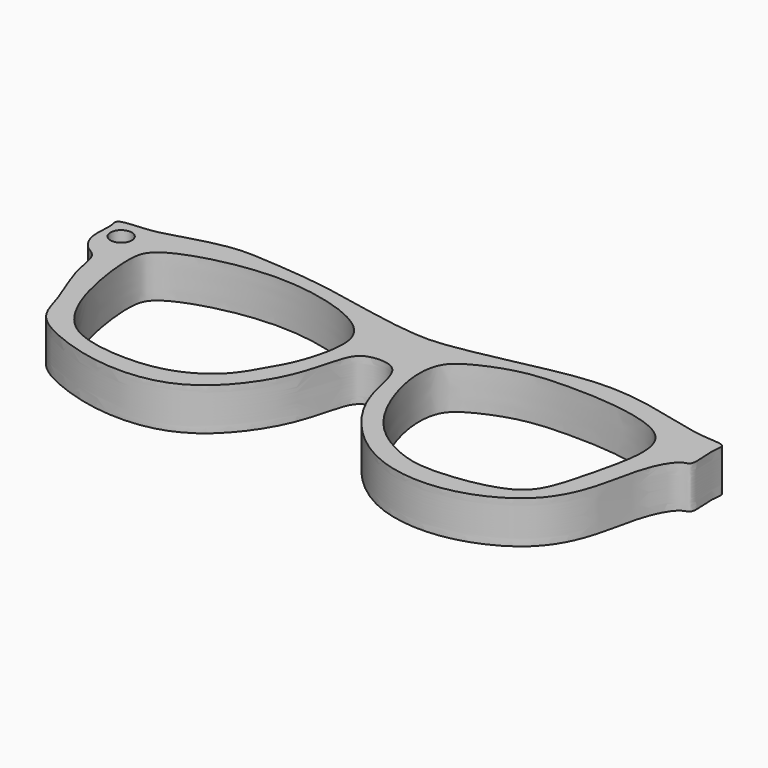
from build123d import *

# Parameters (mm, degrees)
F0_R     = 1.2593767184
F1_DEPTH = 5
F2_DEPTH = 5


with BuildPart() as f1:
    # F0 (on Top) → F1 (new body)
    with BuildSketch(Plane.XY):
        with BuildLine():
            add(Edge.make_bspline(
                [(-32.4670039117, 22.5107055157), (-33.5438875434, 22.37363291), (-35.1483504082, 22.317639734), (-38.4753353368, 22.6788585954), (-42.3809195826, 23.3709765733), (-49.1993919331, 24.8697274522), (-55.818156536, 25.331459278), (-59.6993304341, 25.5827856081), (-64.767537319, 24.2060099944), (-67.8630156337, 23.1624223492), (-71.8359103057, 23.212659343), (-71.1490241731, 21.7182168139), (-71.6763752003, 19.2298809734), (-70.4474206302, 16.9650934242), (-68.6225014634, 16.354931492), (-68.3960793371, 12.6870340034), (-66.0179532942, 7.7499930435), (-65.2209921235, 3.5392845813), (-60.4675931962, 1.1498202818), (-55.5403765883, -0.2110511423), (-49.9183092031, -0.3575119994), (-44.1354317681, 1.8918722099), (-39.0413260148, 9.0308680536), (-38.2512441556, 15.4567975901), (-36.1150973148, 16.5262245979), (-32.5244707295, 16.3751279381), (-31.9591765908, 10.5497488998), (-29.0772627839, 5.2921866816), (-23.4297282093, 0.2864925895), (-14.6787691691, -0.883596864), (-6.3818599054, 3.0525344854), (-3.6992542177, 9.2536300563), (-2.9571554868, 14.882839804), (-1.0390831864, 17.9890749211), (0.4249195793, 17.901210217), (-0.2495387265, 21.2132328924), (0.48362691, 23.1072853658), (-3.1455670919, 22.8609067775), (-10.4295540475, 25.082841205), (-15.8660427387, 25.4769117588), (-20.3269785213, 24.9565081321), (-26.241354714, 23.6277442476), (-30.8473063058, 22.7168709405), (-32.4670039117, 22.5107055157)],
                knots=[0, 0, 0, 0, 0.0193388485, 0.0399948206, 0.0632977904, 0.0944035454, 0.1244735459, 0.1476022082, 0.1736806586, 0.196188979, 0.2167895586, 0.2284453091, 0.2471036214, 0.2651051983, 0.2798522741, 0.3010433634, 0.3287604912, 0.3522534164, 0.377938772, 0.4046285538, 0.4318079587, 0.4602510047, 0.4947102568, 0.5233748398, 0.5398343705, 0.5591482488, 0.5854700879, 0.614377233, 0.6456605322, 0.6796484343, 0.7138404267, 0.7434644111, 0.7716952826, 0.7925686716, 0.8035786436, 0.8237669956, 0.8380423163, 0.8571537508, 0.8901060955, 0.917500361, 0.94177092, 0.9709132113, 1, 1, 1, 1], degree=3))
        make_face()
        with BuildLine():
            add(Edge.make_bspline(
                [(-64.7687539458, 10.3799793869), (-65.1694266046, 11.8400594236), (-65.6994399049, 14.7249337647), (-65.8913359481, 17.8585264525), (-65.3975043024, 20.9208486191), (-55.4939417174, 23.855918125), (-46.9053217719, 22.9400387073), (-41.4351008837, 20.6931541721), (-39.2259880515, 17.4129075951), (-40.8499013106, 11.2976054727), (-42.5372553859, 8.6374433585), (-44.1851454469, 5.5192067533), (-47.6759432332, 2.964623268), (-52.0531590234, 1.8832656308), (-57.3736582755, 2.1527368783), (-61.1610844669, 3.5518399795), (-63.454295199, 6.5079438224), (-64.3857972557, 8.9844576166), (-64.7687539458, 10.3799793869)],
                knots=[0, 0, 0, 0, 0.0620881779, 0.1134077223, 0.1591315023, 0.2492022718, 0.3381206229, 0.4066016212, 0.461154591, 0.5324048091, 0.5853828005, 0.6389244485, 0.698608278, 0.7607453105, 0.8280337274, 0.8857663077, 0.940657086, 1, 1, 1, 1], degree=3))
        make_face(mode=Mode.SUBTRACT)
        with Locations((-69.2497342825, 20.7256861031)):
            Circle(F0_R, mode=Mode.SUBTRACT)
        with BuildLine():
            add(Edge.make_bspline(
                [(-30.3512811661, 18.8494827598), (-30.0357199806, 19.5626990784), (-28.8482837111, 20.7180835432), (-24.2124033965, 22.7412395012), (-19.1093780276, 23.176711154), (-11.7698171669, 22.9658501074), (-5.7338287072, 21.1699375014), (-4.4633514122, 17.1949329342), (-5.8046160947, 11.5590463176), (-6.9919107381, 6.63976243), (-9.1953170651, 3.1598900321), (-17.8191163929, 1.8481541766), (-22.186596293, 2.8241264528), (-27.9456806118, 6.2669771077), (-31.0672384116, 14.5099163484), (-30.7711918414, 17.9004207085), (-30.3512811661, 18.8494827598)],
                knots=[0, 0, 0, 0, 0.0471467971, 0.1154736716, 0.1870135976, 0.2723982579, 0.3475689133, 0.4061563962, 0.4811326392, 0.5511712675, 0.6115091573, 0.7004325858, 0.7673474322, 0.8454875807, 0.9372627423, 1, 1, 1, 1], degree=3))
        make_face(mode=Mode.SUBTRACT)
    extrude(amount=F1_DEPTH)

    # F0 (on Top) → F2 (cut)
    with BuildSketch(Plane.XY):
        with BuildLine():
            add(Edge.make_bspline(
                [(-32.4670039117, 22.5107055157), (-33.5438875434, 22.37363291), (-35.1483504082, 22.317639734), (-38.4753353368, 22.6788585954), (-42.3809195826, 23.3709765733), (-49.1993919331, 24.8697274522), (-55.818156536, 25.331459278), (-59.6993304341, 25.5827856081), (-64.767537319, 24.2060099944), (-67.8630156337, 23.1624223492), (-71.8359103057, 23.212659343), (-71.1490241731, 21.7182168139), (-71.6763752003, 19.2298809734), (-70.4474206302, 16.9650934242), (-68.6225014634, 16.354931492), (-68.3960793371, 12.6870340034), (-66.0179532942, 7.7499930435), (-65.2209921235, 3.5392845813), (-60.4675931962, 1.1498202818), (-55.5403765883, -0.2110511423), (-49.9183092031, -0.3575119994), (-44.1354317681, 1.8918722099), (-39.0413260148, 9.0308680536), (-38.2512441556, 15.4567975901), (-36.1150973148, 16.5262245979), (-32.5244707295, 16.3751279381), (-31.9591765908, 10.5497488998), (-29.0772627839, 5.2921866816), (-23.4297282093, 0.2864925895), (-14.6787691691, -0.883596864), (-6.3818599054, 3.0525344854), (-3.6992542177, 9.2536300563), (-2.9571554868, 14.882839804), (-1.0390831864, 17.9890749211), (0.4249195793, 17.901210217), (-0.2495387265, 21.2132328924), (0.48362691, 23.1072853658), (-3.1455670919, 22.8609067775), (-10.4295540475, 25.082841205), (-15.8660427387, 25.4769117588), (-20.3269785213, 24.9565081321), (-26.241354714, 23.6277442476), (-30.8473063058, 22.7168709405), (-32.4670039117, 22.5107055157)],
                knots=[0, 0, 0, 0, 0.0193388485, 0.0399948206, 0.0632977904, 0.0944035454, 0.1244735459, 0.1476022082, 0.1736806586, 0.196188979, 0.2167895586, 0.2284453091, 0.2471036214, 0.2651051983, 0.2798522741, 0.3010433634, 0.3287604912, 0.3522534164, 0.377938772, 0.4046285538, 0.4318079587, 0.4602510047, 0.4947102568, 0.5233748398, 0.5398343705, 0.5591482488, 0.5854700879, 0.614377233, 0.6456605322, 0.6796484343, 0.7138404267, 0.7434644111, 0.7716952826, 0.7925686716, 0.8035786436, 0.8237669956, 0.8380423163, 0.8571537508, 0.8901060955, 0.917500361, 0.94177092, 0.9709132113, 1, 1, 1, 1], degree=3))
        make_face()
        with BuildLine():
            add(Edge.make_bspline(
                [(-64.7687539458, 10.3799793869), (-65.1694266046, 11.8400594236), (-65.6994399049, 14.7249337647), (-65.8913359481, 17.8585264525), (-65.3975043024, 20.9208486191), (-55.4939417174, 23.855918125), (-46.9053217719, 22.9400387073), (-41.4351008837, 20.6931541721), (-39.2259880515, 17.4129075951), (-40.8499013106, 11.2976054727), (-42.5372553859, 8.6374433585), (-44.1851454469, 5.5192067533), (-47.6759432332, 2.964623268), (-52.0531590234, 1.8832656308), (-57.3736582755, 2.1527368783), (-61.1610844669, 3.5518399795), (-63.454295199, 6.5079438224), (-64.3857972557, 8.9844576166), (-64.7687539458, 10.3799793869)],
                knots=[0, 0, 0, 0, 0.0620881779, 0.1134077223, 0.1591315023, 0.2492022718, 0.3381206229, 0.4066016212, 0.461154591, 0.5324048091, 0.5853828005, 0.6389244485, 0.698608278, 0.7607453105, 0.8280337274, 0.8857663077, 0.940657086, 1, 1, 1, 1], degree=3))
        make_face(mode=Mode.SUBTRACT)
        with Locations((-69.2497342825, 20.7256861031)):
            Circle(F0_R, mode=Mode.SUBTRACT)
        with BuildLine():
            add(Edge.make_bspline(
                [(-30.3512811661, 18.8494827598), (-30.0357199806, 19.5626990784), (-28.8482837111, 20.7180835432), (-24.2124033965, 22.7412395012), (-19.1093780276, 23.176711154), (-11.7698171669, 22.9658501074), (-5.7338287072, 21.1699375014), (-4.4633514122, 17.1949329342), (-5.8046160947, 11.5590463176), (-6.9919107381, 6.63976243), (-9.1953170651, 3.1598900321), (-17.8191163929, 1.8481541766), (-22.186596293, 2.8241264528), (-27.9456806118, 6.2669771077), (-31.0672384116, 14.5099163484), (-30.7711918414, 17.9004207085), (-30.3512811661, 18.8494827598)],
                knots=[0, 0, 0, 0, 0.0471467971, 0.1154736716, 0.1870135976, 0.2723982579, 0.3475689133, 0.4061563962, 0.4811326392, 0.5511712675, 0.6115091573, 0.7004325858, 0.7673474322, 0.8454875807, 0.9372627423, 1, 1, 1, 1], degree=3))
        make_face(mode=Mode.SUBTRACT)
    extrude(amount=-F2_DEPTH, mode=Mode.SUBTRACT)


solid = f1.part
